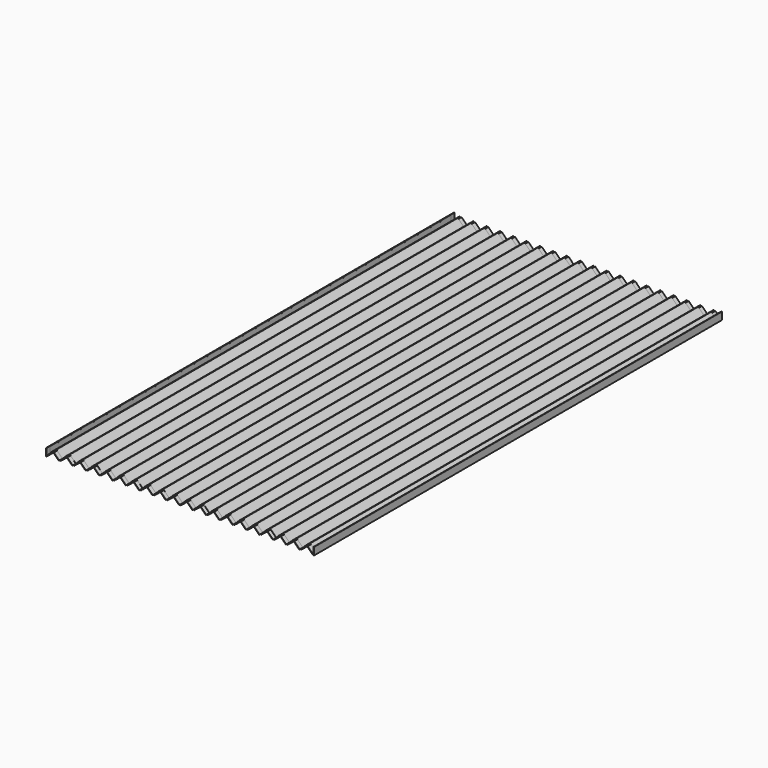
from build123d import *

# Parameters (mm, degrees)
F2_DEPTH = 212.5
F4_DEPTH = 215.9


with BuildPart() as f2:
    # F1 (on Front) → F2 (new body, symmetric)
    with BuildSketch(Plane.XZ):
        Polygon((-11.3316690112, -2.8284271247), (-11.313708499, -2.846387637), (-5.6568542495, 2.8104666125), (0, -2.846387637), (5.6568542495, 2.8104666125), (11.313708499, -2.846387637), (16.9705627485, 2.8104666125), (22.627416998, -2.846387637), (28.2842712475, 2.8104666125), (33.941125497, -2.846387637), (39.5979797464, 2.8104666125), (45.2548339959, -2.846387637), (50.9116882454, 2.8104666125), (56.5685424949, -2.846387637), (62.2253967444, 2.8104666125), (67.8822509939, -2.846387637), (73.5391052434, 2.8104666125), (79.1959594929, -2.846387637), (84.8528137424, 2.8104666125), (90.5096679919, -2.846387637), (96.1665222414, 2.8104666125), (101.8233764909, -2.846387637), (107.4802307404, 2.8104666125), (113.1370849898, -2.846387637), (118.7939392393, 2.8104666125), (124.4507934888, -2.846387637), (130.1076477383, 2.8104666125), (135.7645019878, -2.846387637), (141.4213562373, 2.8104666125), (147.0782104868, -2.846387637), (152.7350647363, 2.8104666125), (158.3919189858, -2.846387637), (164.0487732353, 2.8104666125), (169.7056274848, -2.846387637), (175.3624817343, 2.8104666125), (181.0193359838, -2.846387637), (186.6761902332, 2.8104666125), (192.3330444827, -2.846387637), (197.9898987322, 2.8104666125), (203.6467529817, -2.846387637), (209.3036072312, 2.8104666125), (214.9604614807, -2.846387637), (214.978421993, -2.8284271247), (214.978421993, 2.846387637), (214.9604614807, 2.846387637), (214.9604614807, -2.8104666125), (209.3036072312, 2.846387637), (203.6467529817, -2.8104666125), (197.9898987322, 2.846387637), (192.3330444827, -2.8104666125), (186.6761902332, 2.846387637), (181.0193359838, -2.8104666125), (175.3624817343, 2.846387637), (169.7056274848, -2.8104666125), (164.0487732353, 2.846387637), (158.3919189858, -2.8104666125), (152.7350647363, 2.846387637), (147.0782104868, -2.8104666125), (141.4213562373, 2.846387637), (135.7645019878, -2.8104666125), (130.1076477383, 2.846387637), (124.4507934888, -2.8104666125), (118.7939392393, 2.846387637), (113.1370849898, -2.8104666125), (107.4802307404, 2.846387637), (101.8233764909, -2.8104666125), (96.1665222414, 2.846387637), (90.5096679919, -2.8104666125), (84.8528137424, 2.846387637), (79.1959594929, -2.8104666125), (73.5391052434, 2.846387637), (67.8822509939, -2.8104666125), (62.2253967444, 2.846387637), (56.5685424949, -2.8104666125), (50.9116882454, 2.846387637), (45.2548339959, -2.8104666125), (39.5979797464, 2.846387637), (33.941125497, -2.8104666125), (28.2842712475, 2.846387637), (22.627416998, -2.8104666125), (16.9705627485, 2.846387637), (11.313708499, -2.8104666125), (5.6568542495, 2.846387637), (0, -2.8104666125), (-5.6568542495, 2.846387637), (-11.313708499, -2.8104666125), (-11.313708499, 2.846387637), (-11.3316690112, 2.846387637), align=None)
    extrude(amount=F2_DEPTH, both=True)

    # F3 (on Front) → F4 (join, symmetric)
    with BuildSketch(Plane.XZ):
        Polygon((-11.7380690112, -2.8284271247), (-11.3316690112, -2.8284271247), (-11.3316690112, 2.846387637), (-11.3316690112, 3.5215728753), (-11.7380690112, 3.5215728753), align=None)
        Polygon((-11.0177136004, -1.9397353222), (-10.7303454045, -2.227103518), (-6.240217344, 2.2630245425), (-6.5275855398, 2.5503927384), align=None)
        Polygon((-0.5833630945, -2.2630245425), (-5.073491155, 2.227103518), (-5.3608593509, 1.9397353222), (-0.8707312904, -2.5503927384), align=None)
        Polygon((0.2959948986, -1.9397353222), (0.5833630945, -2.227103518), (5.073491155, 2.2630245425), (4.7861229591, 2.5503927384), align=None)
        Polygon((10.7303454045, -2.2630245425), (6.240217344, 2.227103518), (5.9528491481, 1.9397353222), (10.4429772086, -2.5503927384), align=None)
        Polygon((11.6097033976, -1.9397353222), (11.8970715935, -2.227103518), (16.387199654, 2.2630245425), (16.0998314581, 2.5503927384), align=None)
        Polygon((22.0440539035, -2.2630245425), (17.553925843, 2.227103518), (17.2665576471, 1.9397353222), (21.7566857076, -2.5503927384), align=None)
        Polygon((22.9234118966, -1.9397353222), (23.2107800924, -2.227103518), (27.700908153, 2.2630245425), (27.4135399571, 2.5503927384), align=None)
        Polygon((33.3577624025, -2.2630245425), (28.8676343419, 2.227103518), (28.5802661461, 1.9397353222), (33.0703942066, -2.5503927384), align=None)
        Polygon((34.2371203956, -1.9397353222), (34.5244885914, -2.227103518), (39.014616652, 2.2630245425), (38.7272484561, 2.5503927384), align=None)
        Polygon((44.6714709015, -2.2630245425), (40.1813428409, 2.227103518), (39.8939746451, 1.9397353222), (44.3841027056, -2.5503927384), align=None)
        Polygon((45.5508288945, -1.9397353222), (45.8381970904, -2.227103518), (50.328325151, 2.2630245425), (50.0409569551, 2.5503927384), align=None)
        Polygon((55.9851794004, -2.2630245425), (51.4950513399, 2.227103518), (51.207683144, 1.9397353222), (55.6978112046, -2.5503927384), align=None)
        Polygon((56.8645373935, -1.9397353222), (57.1519055894, -2.227103518), (61.6420336499, 2.2630245425), (61.3546654541, 2.5503927384), align=None)
        Polygon((67.2988878994, -2.2630245425), (62.8087598389, 2.227103518), (62.521391643, 1.9397353222), (67.0115197036, -2.5503927384), align=None)
        Polygon((68.1782458925, -1.9397353222), (68.4656140884, -2.227103518), (72.9557421489, 2.2630245425), (72.668373953, 2.5503927384), align=None)
        Polygon((78.6125963984, -2.2630245425), (74.1224683379, 2.227103518), (73.835100142, 1.9397353222), (78.3252282025, -2.5503927384), align=None)
        Polygon((79.4919543915, -1.9397353222), (79.7793225874, -2.227103518), (84.2694506479, 2.2630245425), (83.982082452, 2.5503927384), align=None)
        Polygon((89.9263048974, -2.2630245425), (85.4361768369, 2.227103518), (85.148808641, 1.9397353222), (89.6389367015, -2.5503927384), align=None)
        Polygon((90.8056628905, -1.9397353222), (91.0930310864, -2.227103518), (95.5831591469, 2.2630245425), (95.295790951, 2.5503927384), align=None)
        Polygon((101.2400133964, -2.2630245425), (96.7498853358, 2.227103518), (96.46251714, 1.9397353222), (100.9526452005, -2.5503927384), align=None)
        Polygon((102.1193713895, -1.9397353222), (102.4067395853, -2.227103518), (106.8968676459, 2.2630245425), (106.60949945, 2.5503927384), align=None)
        Polygon((112.5537218954, -2.2630245425), (108.0635938348, 2.227103518), (107.776225639, 1.9397353222), (112.2663536995, -2.5503927384), align=None)
        Polygon((113.4330798885, -1.9397353222), (113.7204480843, -2.227103518), (118.2105761449, 2.2630245425), (117.923207949, 2.5503927384), align=None)
        Polygon((123.8674303944, -2.2630245425), (119.3773023338, 2.227103518), (119.0899341379, 1.9397353222), (123.5800621985, -2.5503927384), align=None)
        Polygon((124.7467883874, -1.9397353222), (125.0341565833, -2.227103518), (129.5242846438, 2.2630245425), (129.236916448, 2.5503927384), align=None)
        Polygon((135.1811388933, -2.2630245425), (130.6910108328, 2.227103518), (130.4036426369, 1.9397353222), (134.8937706975, -2.5503927384), align=None)
        Polygon((136.0604968864, -1.9397353222), (136.3478650823, -2.227103518), (140.8379931428, 2.2630245425), (140.550624947, 2.5503927384), align=None)
        Polygon((146.4948473923, -2.2630245425), (142.0047193318, 2.227103518), (141.7173511359, 1.9397353222), (146.2074791964, -2.5503927384), align=None)
        Polygon((147.3742053854, -1.9397353222), (147.6615735813, -2.227103518), (152.1517016418, 2.2630245425), (151.8643334459, 2.5503927384), align=None)
        Polygon((157.8085558913, -2.2630245425), (153.3184278308, 2.227103518), (153.0310596349, 1.9397353222), (157.5211876954, -2.5503927384), align=None)
        Polygon((158.6879138844, -1.9397353222), (158.9752820803, -2.227103518), (163.4654101408, 2.2630245425), (163.1780419449, 2.5503927384), align=None)
        Polygon((169.1222643903, -2.2630245425), (164.6321363298, 2.227103518), (164.3447681339, 1.9397353222), (168.8348961944, -2.5503927384), align=None)
        Polygon((170.0016223834, -1.9397353222), (170.2889905793, -2.227103518), (174.7791186398, 2.2630245425), (174.4917504439, 2.5503927384), align=None)
        Polygon((180.4359728893, -2.2630245425), (175.9458448287, 2.227103518), (175.6584766329, 1.9397353222), (180.1486046934, -2.5503927384), align=None)
        Polygon((181.3153308824, -1.9397353222), (181.6026990782, -2.227103518), (186.0928271388, 2.2630245425), (185.8054589429, 2.5503927384), align=None)
        Polygon((191.7496813883, -2.2630245425), (187.2595533277, 2.227103518), (186.9721851319, 1.9397353222), (191.4623131924, -2.5503927384), align=None)
        Polygon((192.6290393813, -1.9397353222), (192.9164075772, -2.227103518), (197.4065356378, 2.2630245425), (197.1191674419, 2.5503927384), align=None)
        Polygon((203.0633898872, -2.2630245425), (198.5732618267, 2.227103518), (198.2858936308, 1.9397353222), (202.7760216914, -2.5503927384), align=None)
        Polygon((203.9427478803, -1.9397353222), (204.2301160762, -2.227103518), (208.7202441367, 2.2630245425), (208.4328759409, 2.5503927384), align=None)
        Polygon((214.3770983862, -2.2630245425), (209.8869703257, 2.227103518), (209.5996021298, 1.9397353222), (214.0897301904, -2.5503927384), align=None)
        Polygon((214.978421993, 2.846387637), (214.978421993, -2.8284271247), (215.384821993, -2.8284271247), (215.384821993, 3.5215728753), (214.978421993, 3.5215728753), align=None)
    extrude(amount=F4_DEPTH, both=True)


solid = f2.part
